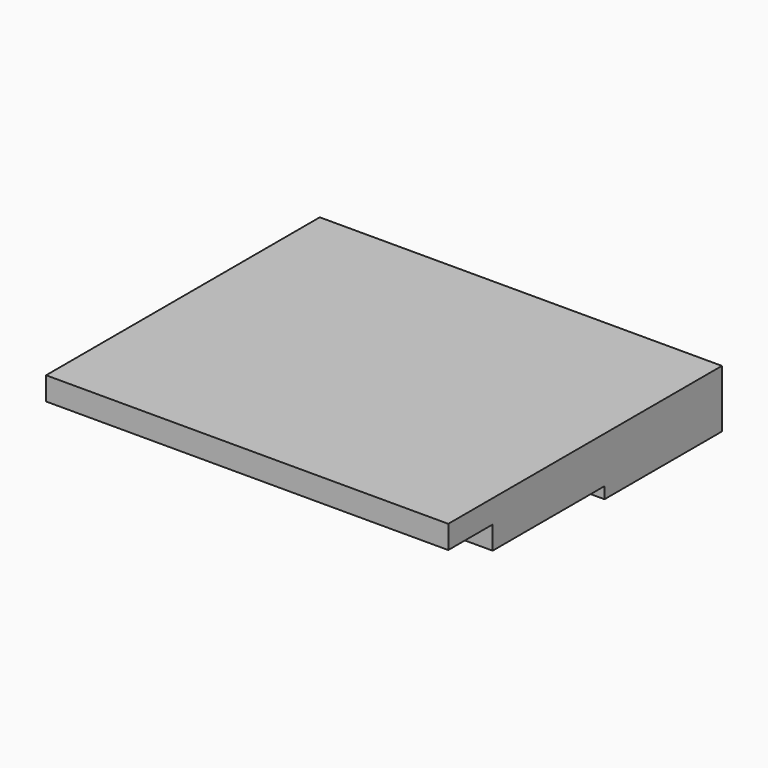
from build123d import *

# Parameters (mm, degrees)
BOX041_W     = 174
BOX041_H     = 60.5
BOX041_DEPTH = 10
BOX042_W     = 174
BOX042_H     = 148
BOX042_DEPTH = 10
BOX040_W     = 174
BOX040_H     = 63.5
BOX040_DEPTH = 15


with BuildPart() as obj1:
    # Box041 → Box041 (new body)
    with BuildSketch(Plane(origin=(0, 21, 50), x_dir=(1, 0, 0), z_dir=(0, 0, 1))):
        with Locations((87, 30.25)):
            Rectangle(BOX041_W, BOX041_H)
    extrude(amount=BOX041_DEPTH)


with BuildPart() as obj2:
    # Box042 → Box042 (new body)
    with BuildSketch(Plane(origin=(0, -3, 60), x_dir=(1, 0, 0), z_dir=(0, 0, 1))):
        with Locations((87, 74)):
            Rectangle(BOX042_W, BOX042_H)
    extrude(amount=BOX042_DEPTH)


with BuildPart() as obj3:
    # Box040 → Box040 (new body)
    with BuildSketch(Plane(origin=(0, 81.5, 45), x_dir=(1, 0, 0), z_dir=(0, 0, 1))):
        with Locations((87, 31.75)):
            Rectangle(BOX040_W, BOX040_H)
    extrude(amount=BOX040_DEPTH)

    # Fusion010: union obj1, obj2
    add(obj1.part)
    add(obj2.part)


solid = obj3.part
